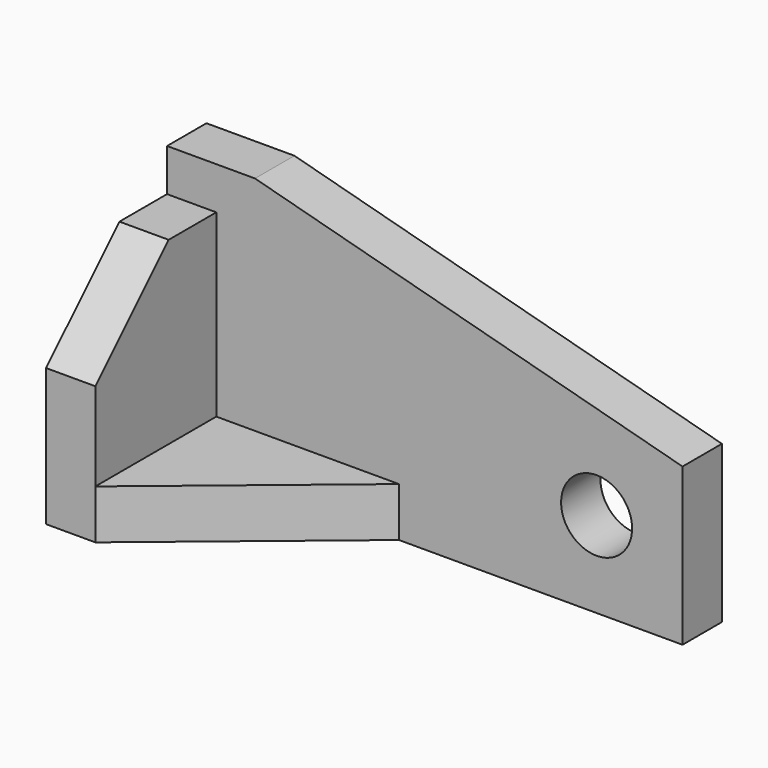
from build123d import *

# Parameters (mm, degrees)
F1_DEPTH = 10.922
F2_DEPTH = 60.198
F4_W     = 10.922
F4_H     = 33.528
F5_DEPTH = 39.878
F6_SIZE  = 20.32
F7_SIZE2 = 94.7940905122
F7_SIZE  = 25.4
F8_D     = 15.748
F8_DEPTH = 10.922
F8_TIP   = 4.7311765142


with BuildPart() as f1:
    # F0 (on Top) → F1 (new body)
    with BuildSketch(Plane.XY):
        Polygon((-22.1283522343, 10.922), (-73.5512077808, 10.922), (-73.5512077808, -22.606), (-62.6292077808, -22.606), align=None)
        Polygon((40.7487922192, 21.844), (-73.5512077808, 21.844), (-73.5512077808, 10.922), (-22.1283522343, 10.922), (40.7487922192, 10.922), align=None)
    extrude(amount=F1_DEPTH)

    # F0 (on Top) → F2 (join)
    with BuildSketch(Plane.XY):
        Polygon((40.7487922192, 21.844), (-73.5512077808, 21.844), (-73.5512077808, 10.922), (-22.1283522343, 10.922), (40.7487922192, 10.922), align=None)
    extrude(amount=F2_DEPTH)

    # F4 (on face) → F5 (join)
    with BuildSketch(Plane.XY.offset(10.922)):
        with Locations((-68.0902077808, -5.842)):
            Rectangle(F4_W, F4_H)
    extrude(amount=F5_DEPTH)

    # F6
    f6_edges = [f1.edges().sort_by_distance(p)[0] for p in [
        (-68.090208, -22.606, 50.8),
    ]]
    chamfer(f6_edges, length=F6_SIZE)

    # F7
    f7_edges = [f1.edges().sort_by_distance(p)[0] for p in [
        (40.748792, 16.383, 60.198),
    ]]
    f7_side = f1.faces().sort_by_distance((40.748792, 16.383, 30.099))[0]
    chamfer(f7_edges, length=F7_SIZE, length2=F7_SIZE2, reference=f7_side)

    # F8
    with Locations(Plane.XZ.offset(-10.922)):
        with Locations((21.6987922192, 19.05)):
            Hole(F8_D / 2, depth=F8_DEPTH)
            with Locations((0, 0, -(F8_DEPTH + F8_TIP / 2))):  # 118° drill point
                Cone(0, F8_D / 2, F8_TIP, mode=Mode.SUBTRACT)


solid = f1.part
